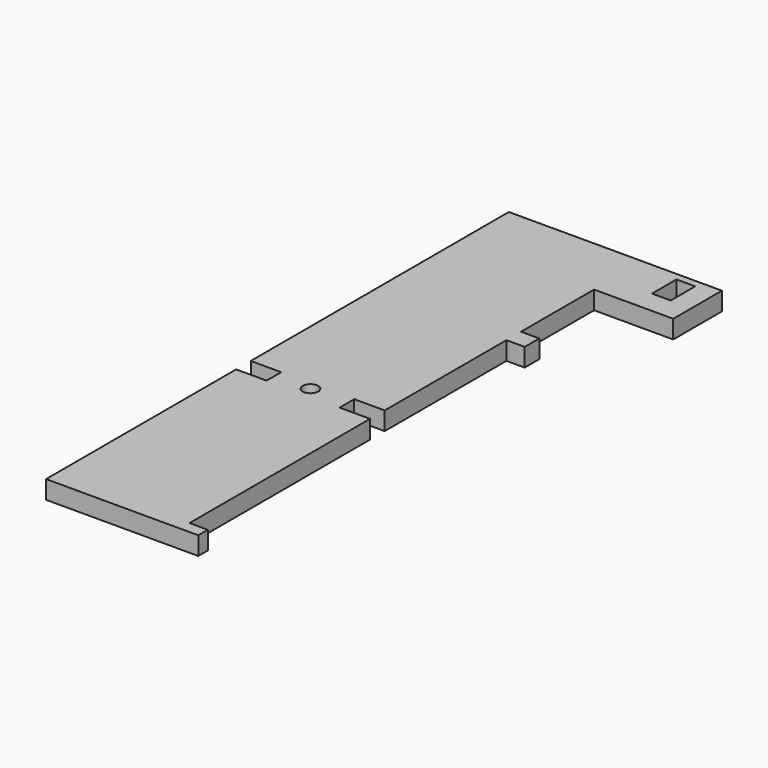
from build123d import *

# Parameters (mm, degrees)
F0_R     = 3.22318
F0_W     = 7.824334
F0_H     = 12.78612
F1_DEPTH = 7.62


with BuildPart() as f1:
    # F0 (on Top) → F1 (new body)
    with BuildSketch(Plane.XY):
        Polygon((38.677897, 163.736349), (-50.222103, 163.736349), (-50.222103, 29.116349), (-37.522103, 29.116349), (-37.522103, 21.496349), (-50.222103, 21.496349), (-50.222103, -77.63461), (13.277897, -77.63461), (13.277897, -72.674066), (5.657897, -72.674066), (5.657897, -62.323651), (5.657897, 21.496349), (-7.042103, 21.496349), (-7.042103, 29.116349), (5.657897, 29.116349), (5.657897, 92.616349), (13.277897, 92.616349), (13.277897, 100.236349), (5.657897, 100.236349), (5.657897, 138.336349), (38.677897, 138.336349), align=None)
        with Locations((-22.791322, 25.957376)):
            Circle(F0_R, mode=Mode.SUBTRACT)
        with Locations((26.073183, 154.288769)):
            Rectangle(F0_W, F0_H, mode=Mode.SUBTRACT)
    extrude(amount=F1_DEPTH)


solid = f1.part
